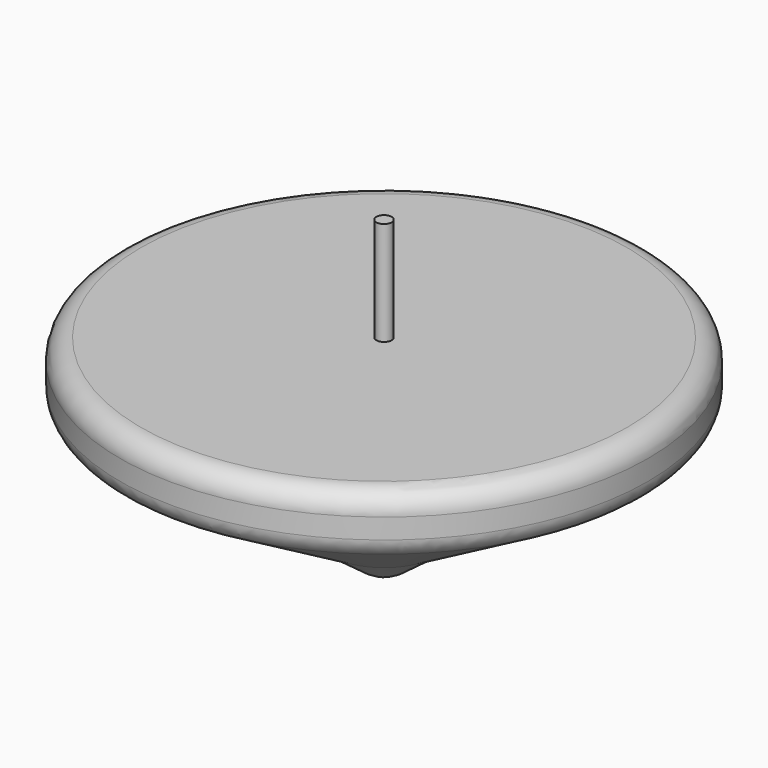
from build123d import *

# Parameters (mm, degrees)
F2_R = 5.08


with BuildPart() as f1:
    # F0 (on Front) → F1 (revolve)
    with BuildSketch(Plane.XZ):
        with BuildLine():
            Line((4.890444, -6.616758), (13.825093, 0))
            Line((13.825093, 0), (64.812168, 29.610341))
            Line((64.812168, 29.610341), (64.812168, 42.566437))
            Line((64.812168, 42.566437), (1.862864, 42.566437))
            Line((1.862864, 42.566437), (1.862864, 68.062365))
            Line((1.862864, 68.062365), (0, 68.062365))
            Line((0, 68.062365), (0, -8.230456))
            ThreePointArc((0, -8.230456), (2.574901, -7.81661), (4.890444, -6.616758))
        make_face()
    revolve(axis=Axis((0, 0, 29.915955), (0, 0, -1)))

    # F2
    f2_edges = [f1.edges().sort_by_distance(p)[0] for p in [
        (-64.812168, 0, 42.566437),
        (-64.812168, 0, 29.610341),
    ]]
    fillet(f2_edges, radius=F2_R)


solid = f1.part
